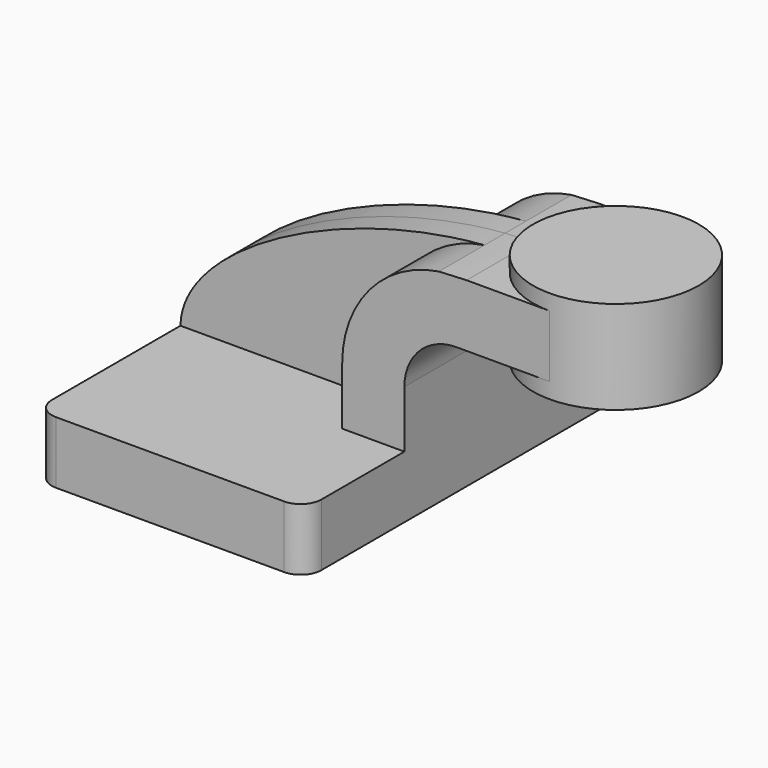
from build123d import *

# Parameters (mm, degrees)
F1_DEPTH = 63.5
F0_W     = 25.4
F0_H     = 19.05
F2_DEPTH = 25.4
F3_DEPTH = 7.9375
F5_R     = 6.35


with BuildPart() as f1:
    # F0 (on Front) → F1 (new body, symmetric)
    with BuildSketch(Plane.XZ):
        Polygon((41.275, -9.525), (41.275, 9.525), (22.225, 9.525), (-41.275, 9.525), (-41.275, -9.525), align=None)
    extrude(amount=F1_DEPTH, both=True)

    # F0 (on Front) → F2 (join, symmetric)
    with BuildSketch(Plane.XZ):
        with BuildLine():
            Line((22.225, 9.525), (41.275, 9.525))
            Line((41.275, 9.525), (41.275, 27.0002))
            ThreePointArc((41.275, 27.0002), (45.92468, 38.22552), (57.15, 42.8752))
            Line((57.15, 42.8752), (60.325, 42.8752))
            Line((60.325, 42.8752), (60.325, 61.9252))
            add(Edge.make_bspline(
                [(51.823545, 61.516638), (54.671503, 61.742605), (57.509493, 61.880867), (60.325, 61.9252)],
                knots=[107.525137, 107.525137, 107.525137, 107.525137, 114.316845, 114.316845, 114.316845, 114.316845], degree=3))
            ThreePointArc((51.823545, 61.516638), (30.637908, 49.734856), (22.225, 27.0002))
            Line((22.225, 27.0002), (22.225, 9.525))
        make_face()
        with Locations((73.025, 52.4002)):
            Rectangle(F0_W, F0_H)
    extrude(amount=F2_DEPTH, both=True)

    # F0 (on Front) → F3 (join, symmetric)
    with BuildSketch(Plane.XZ):
        with BuildLine():
            Line((-41.275, 9.525), (22.225, 9.525))
            Line((22.225, 9.525), (22.225, 27.0002))
            ThreePointArc((22.225, 27.0002), (30.637908, 49.734856), (51.823545, 61.516638))
            add(Edge.make_bspline(
                [(-41.275, 9.525), (-40.851534, 32.378485), (6.735176, 57.939164), (51.823545, 61.516638)],
                knots=[0, 0, 0, 0, 107.525137, 107.525137, 107.525137, 107.525137], degree=3))
        make_face()
    extrude(amount=F3_DEPTH, both=True)

    # F0 (on Front) → F4 (revolve)
    with BuildSketch(Plane.XZ):
        Polygon((85.725, 61.9252), (85.725, 42.8752), (85.725, 38.1), (111.125, 38.1), (111.125, 66.675), (85.725, 66.675), align=None)
    revolve(axis=Axis((85.725, 0, 52.3875), (0, 0, 1)))

    # F5
    f5_edges = [f1.edges().sort_by_distance(p)[0] for p in [
        (41.275, -63.5, 0),
        (-41.275, -63.5, 0),
        (41.275, 63.5, 0),
        (-41.275, 63.5, 0),
    ]]
    fillet(f5_edges, radius=F5_R)


solid = f1.part
